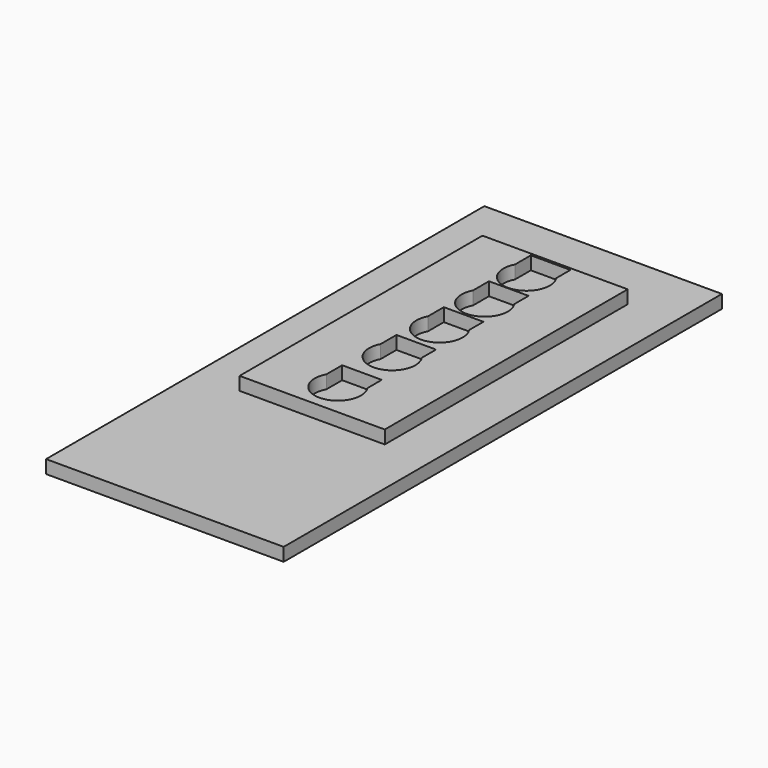
from build123d import *

# Parameters (mm, degrees)
F0_W     = 457.2
F0_H     = 1054.1
F1_DEPTH = 25.4
F2_W     = 279.4
F2_H     = 584.2
F3_DEPTH = 25.4
F5_DEPTH = 25.4


with BuildPart() as f1:
    # F0 (on Top) → F1 (new body)
    with BuildSketch(Plane.XY):
        with Locations((-45.277641, 104.469)):
            Rectangle(F0_W, F0_H)
    extrude(amount=F1_DEPTH)

    # F2 (on face) → F3 (join)
    with BuildSketch(Plane.XY.offset(25.4)):
        with Locations((-45.87521, 224.568032)):
            Rectangle(F2_W, F2_H)
    extrude(amount=F3_DEPTH)

    # F4 (on face) → F5 (cut)
    with BuildSketch(Plane.XY.offset(50.8)):
        with BuildLine():
            Line((-86.836747, 55.727709), (-86.836747, 17.627709))
            ThreePointArc((-86.836747, 17.627709), (-45.484862, -48.067084), (-10.636747, 21.297123))
            Line((-10.636747, 21.297123), (-10.636747, 55.727709))
            Line((-10.636747, 55.727709), (-86.836747, 55.727709))
        make_face()
        with BuildLine():
            Line((-84.68732, 183.664479), (-84.68732, 145.564479))
            ThreePointArc((-84.68732, 145.564479), (-43.335435, 79.869686), (-8.48732, 149.233893))
            Line((-8.48732, 149.233893), (-8.48732, 183.664479))
            Line((-8.48732, 183.664479), (-84.68732, 183.664479))
        make_face()
        with BuildLine():
            Line((-85.555011, 298.756876), (-85.555011, 260.656876))
            ThreePointArc((-85.555011, 260.656876), (-44.203125, 194.962082), (-9.355011, 264.32629))
            Line((-9.355011, 264.32629), (-9.355011, 298.756876))
            Line((-9.355011, 298.756876), (-85.555011, 298.756876))
        make_face()
        with BuildLine():
            Line((-85.304319, 406.970002), (-85.304319, 368.870002))
            ThreePointArc((-85.304319, 368.870002), (-43.952433, 303.175209), (-9.104319, 372.539416))
            Line((-9.104319, 372.539416), (-9.104319, 406.970002))
            Line((-9.104319, 406.970002), (-85.304319, 406.970002))
        make_face()
        with BuildLine():
            Line((-88.826308, 512.056686), (-88.826308, 473.956686))
            ThreePointArc((-88.826308, 473.956686), (-47.474423, 408.261893), (-12.626308, 477.6261))
            Line((-12.626308, 477.6261), (-12.626308, 512.056686))
            Line((-12.626308, 512.056686), (-88.826308, 512.056686))
        make_face()
    extrude(amount=-F5_DEPTH, mode=Mode.SUBTRACT)


solid = f1.part
